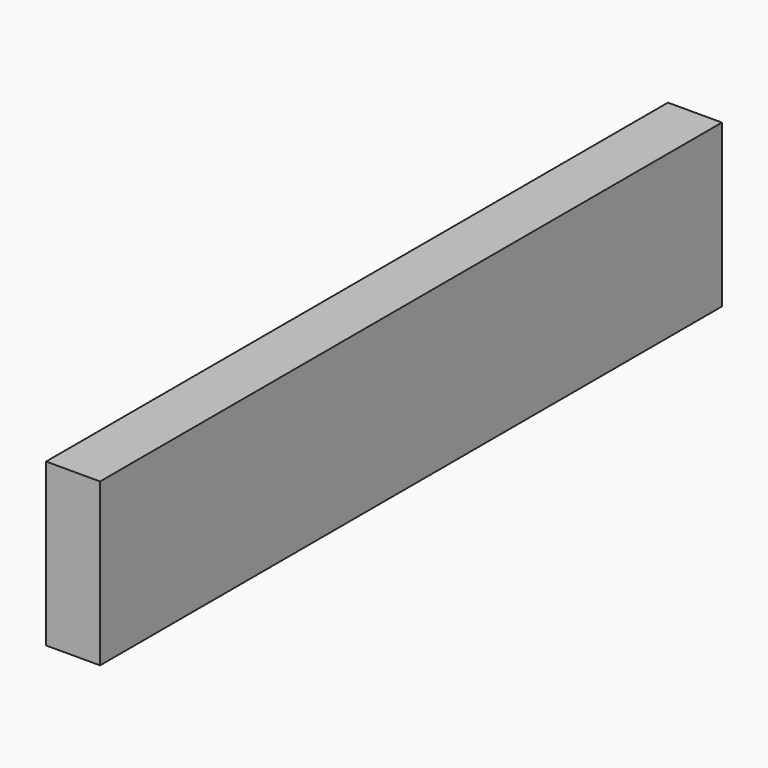
from build123d import *

# Parameters (mm, degrees)
F0_W     = 5
F0_H     = 15
F1_DEPTH = 72
F2_DEPTH = 72
F3_DEPTH = 72


with BuildPart() as f1:
    # F0 (on Front) → F1 (new body)
    with BuildSketch(Plane.XZ):
        Rectangle(F0_W, F0_H)
    extrude(amount=F1_DEPTH)

    # F0 (on Front) → F2 (join)
    with BuildSketch(Plane.XZ):
        Rectangle(F0_W, F0_H)
    extrude(amount=F2_DEPTH)

    # F0 (on Front) → F3 (join)
    with BuildSketch(Plane.XZ):
        Rectangle(F0_W, F0_H)
    extrude(amount=F3_DEPTH)


solid = f1.part
